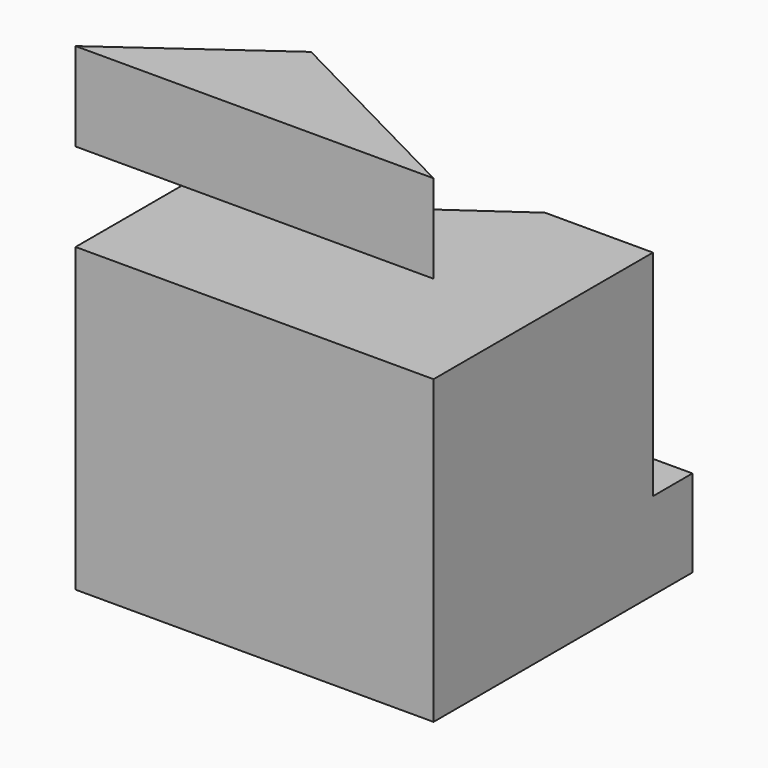
from build123d import *

# Parameters (mm, degrees)
F0_W     = 102.827347815
F0_H     = 92.9536521435
F1_DEPTH = 86.6684615612
F3_DEPTH = 61.6070646793
F6_DEPTH = 25.4


with BuildPart() as f1:
    # F0 (on Top) → F1 (new body)
    with BuildSketch(Plane.XY):
        with Locations((8.411873132, -5.7041868567)):
            Rectangle(F0_W, F0_H)
    extrude(amount=F1_DEPTH)

    # F2 (on face) → F3 (cut)
    with BuildSketch(Plane.XY.offset(86.6684615612)):
        Polygon((-43.0018007755, 40.772639215), (-43.0018007755, 12.2389271855), (8.411873132, 12.2389271855), (28.8321375847, 26.6043245792), (59.8255470395, 26.6043245792), (59.8255470395, 40.772639215), align=None)
    extrude(amount=-F3_DEPTH, mode=Mode.SUBTRACT)


with BuildPart() as f6:
    # F5 (on offset) → F6 (new body)
    with BuildSketch(Plane.XY.offset(112.0684615612)):
        Polygon((-43.0018007755, -52.1810129285), (59.8255470395, -52.1810129285), (0, -21.3810950518), align=None)
    extrude(amount=F6_DEPTH)


solid = Compound([f1.part, f6.part])
